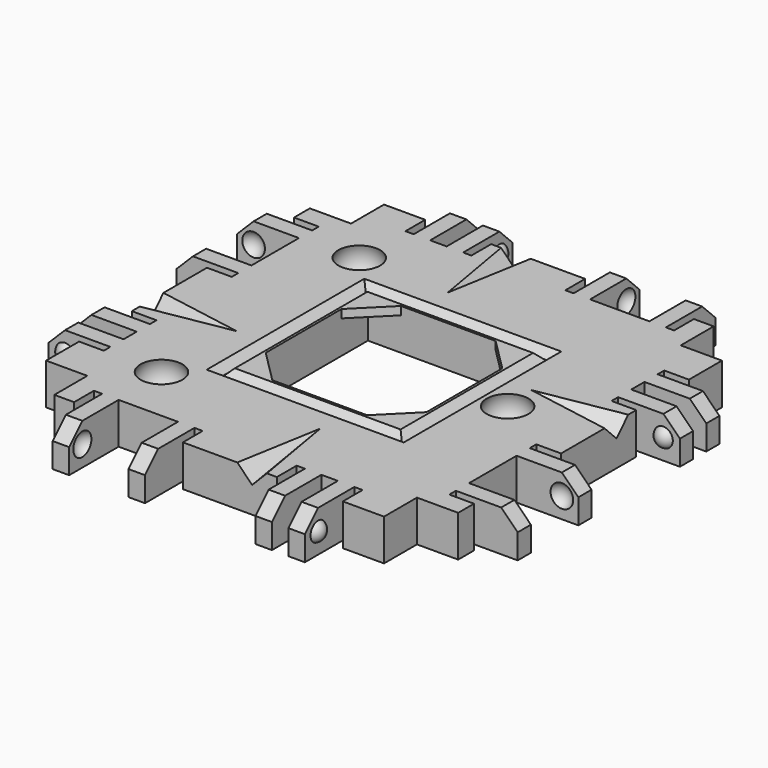
from build123d import *

# Parameters (mm, degrees)
BOX208_W               = 10
BOX208_H               = 15
BOX208_DEPTH           = 10
BOX208_ROLL_ANGLE      = 14.001942
BOX208_PITCH_ANGLE     = -44.136029
BOX208_PLACEMENT_ANGLE = -99.851076
BOX207_W               = 10
BOX207_H               = 15
BOX207_DEPTH           = 10
BOX207_ROLL_ANGLE      = 14.001942
BOX207_PITCH_ANGLE     = -44.136029
BOX207_PLACEMENT_ANGLE = 170.148924
BOX206_W               = 10
BOX206_H               = 15
BOX206_DEPTH           = 10
BOX206_ROLL_ANGLE      = 14.001942
BOX206_PITCH_ANGLE     = -44.136029
BOX206_PLACEMENT_ANGLE = 80.148924
BOX086_W               = 10
BOX086_H               = 15
BOX086_DEPTH           = 10
BOX086_ROLL_ANGLE      = 14.001942
BOX086_PITCH_ANGLE     = -44.136029
BOX086_PLACEMENT_ANGLE = -9.851076
BOX085_W               = 19.5
BOX085_H               = 19.5
BOX085_DEPTH           = 15
BOX076_W               = 19.5
BOX076_H               = 19.5
BOX076_DEPTH           = 15
CHAMFER008_SIZE        = 4
CYLINDER025_R          = 1.7
CYLINDER025_DEPTH      = 10
CYLINDER026_R          = 1.7
CYLINDER026_DEPTH      = 10
CYLINDER024_R          = 1.7
CYLINDER024_DEPTH      = 10
BOX169_W               = 13
BOX169_H               = 40
BOX169_DEPTH           = 10
BOX169_PITCH_ANGLE     = -45
BOX177_W               = 12
BOX177_H               = 44
BOX177_DEPTH           = 10
BOX176_W               = 20
BOX176_H               = 44
BOX176_DEPTH           = 10
BOX172_W               = 4
BOX172_H               = 1
BOX172_DEPTH           = 7
BOX174_W               = 4
BOX174_H               = 1
BOX174_DEPTH           = 7
BOX171_W               = 4
BOX171_H               = 2
BOX171_DEPTH           = 7
BOX173_W               = 4
BOX173_H               = 1
BOX173_DEPTH           = 7
BOX170_W               = 4
BOX170_H               = 1
BOX170_DEPTH           = 7
BOX175_W               = 4
BOX175_H               = 7.2
BOX175_DEPTH           = 7
BOX165_W               = 10
BOX165_H               = 2
BOX165_DEPTH           = 7
BOX166_W               = 10
BOX166_H               = 2
BOX166_DEPTH           = 7
BOX167_W               = 10
BOX167_H               = 2
BOX167_DEPTH           = 7
BOX168_W               = 10
BOX168_H               = 2
BOX168_DEPTH           = 7
BOX164_W               = 5
BOX164_H               = 40
BOX164_DEPTH           = 7
CUT069_PLACEMENT_ANGLE = 90
BOX191_W               = 13
BOX191_H               = 40
BOX191_DEPTH           = 10
BOX191_PITCH_ANGLE     = -45
BOX187_W               = 12
BOX187_H               = 44
BOX187_DEPTH           = 10
BOX180_W               = 20
BOX180_H               = 44
BOX180_DEPTH           = 10
BOX182_W               = 4
BOX182_H               = 1
BOX182_DEPTH           = 7
BOX184_W               = 4
BOX184_H               = 1
BOX184_DEPTH           = 7
BOX186_W               = 4
BOX186_H               = 2
BOX186_DEPTH           = 7
BOX185_W               = 4
BOX185_H               = 1
BOX185_DEPTH           = 7
BOX189_W               = 4
BOX189_H               = 1
BOX189_DEPTH           = 7
BOX181_W               = 4
BOX181_H               = 7.2
BOX181_DEPTH           = 7
BOX190_W               = 10
BOX190_H               = 2
BOX190_DEPTH           = 7
BOX179_W               = 10
BOX179_H               = 2
BOX179_DEPTH           = 7
BOX183_W               = 10
BOX183_H               = 2
BOX183_DEPTH           = 7
BOX188_W               = 10
BOX188_H               = 2
BOX188_DEPTH           = 7
BOX178_W               = 5
BOX178_H               = 40
BOX178_DEPTH           = 7
CUT074_PLACEMENT_ANGLE = 180
BOX193_W               = 13
BOX193_H               = 40
BOX193_DEPTH           = 10
BOX193_PITCH_ANGLE     = -45
BOX203_W               = 12
BOX203_H               = 44
BOX203_DEPTH           = 10
BOX194_W               = 20
BOX194_H               = 44
BOX194_DEPTH           = 10
BOX198_W               = 4
BOX198_H               = 1
BOX198_DEPTH           = 7
BOX204_W               = 4
BOX204_H               = 1
BOX204_DEPTH           = 7
BOX201_W               = 4
BOX201_H               = 2
BOX201_DEPTH           = 7
BOX200_W               = 4
BOX200_H               = 1
BOX200_DEPTH           = 7
BOX197_W               = 4
BOX197_H               = 1
BOX197_DEPTH           = 7
BOX199_W               = 4
BOX199_H               = 7.2
BOX199_DEPTH           = 7
BOX192_W               = 10
BOX192_H               = 2
BOX192_DEPTH           = 7
BOX195_W               = 10
BOX195_H               = 2
BOX195_DEPTH           = 7
BOX202_W               = 10
BOX202_H               = 2
BOX202_DEPTH           = 7
BOX205_W               = 10
BOX205_H               = 2
BOX205_DEPTH           = 7
BOX196_W               = 5
BOX196_H               = 40
BOX196_DEPTH           = 7
CUT079_PLACEMENT_ANGLE = -90
BOX006_W               = 13
BOX006_H               = 40
BOX006_DEPTH           = 10
BOX006_PITCH_ANGLE     = -45
BOX149_W               = 12
BOX149_H               = 44
BOX149_DEPTH           = 10
BOX013_W               = 20
BOX013_H               = 44
BOX013_DEPTH           = 10
BOX009_W               = 4
BOX009_H               = 1
BOX009_DEPTH           = 7
BOX011_W               = 4
BOX011_H               = 1
BOX011_DEPTH           = 7
BOX008_W               = 4
BOX008_H               = 2
BOX008_DEPTH           = 7
BOX010_W               = 4
BOX010_H               = 1
BOX010_DEPTH           = 7
BOX007_W               = 4
BOX007_H               = 1
BOX007_DEPTH           = 7
BOX012_W               = 4
BOX012_H               = 7.2
BOX012_DEPTH           = 7
BOX002_W               = 10
BOX002_H               = 2
BOX002_DEPTH           = 7
BOX003_W               = 10
BOX003_H               = 2
BOX003_DEPTH           = 7
BOX004_W               = 10
BOX004_H               = 2
BOX004_DEPTH           = 7
BOX005_W               = 10
BOX005_H               = 2
BOX005_DEPTH           = 7
BOX001_W               = 5
BOX001_H               = 40
BOX001_DEPTH           = 7
BOX084_W               = 20
BOX084_H               = 20
BOX084_DEPTH           = 14
BOX083_W               = 24
BOX083_H               = 24
BOX083_DEPTH           = 10
CHAMFER007_SIZE        = 0.95
BOX_W                  = 40
BOX_H                  = 40
BOX_DEPTH              = 5


with BuildPart() as cube179:
    # Box208 → Box208 (new body)
    with BuildSketch(Plane.XY):
        with Locations((5, 7.5)):
            Rectangle(BOX208_W, BOX208_H)
    extrude(amount=BOX208_DEPTH)


with BuildPart() as cube179_1:
    # Box208 roll: moved
    add(cube179.part.rotate(Axis((0, 0, 0), (1, 0, 0)), BOX208_ROLL_ANGLE))


with BuildPart() as cube179_2:
    # Box208 pitch: moved
    add(cube179_1.part.rotate(Axis((0, 0, 0), (0, 1, 0)), BOX208_PITCH_ANGLE))


with BuildPart() as cube179_3:
    # Box208 placement: moved
    add(cube179_2.part.moved(Location((-26, -4, 1))).rotate(Axis((-26, -4, 1), (0, 0, 1)), BOX208_PLACEMENT_ANGLE))


with BuildPart() as cube178:
    # Box207 → Box207 (new body)
    with BuildSketch(Plane.XY):
        with Locations((5, 7.5)):
            Rectangle(BOX207_W, BOX207_H)
    extrude(amount=BOX207_DEPTH)


with BuildPart() as cube178_1:
    # Box207 roll: moved
    add(cube178.part.rotate(Axis((0, 0, 0), (1, 0, 0)), BOX207_ROLL_ANGLE))


with BuildPart() as cube178_2:
    # Box207 pitch: moved
    add(cube178_1.part.rotate(Axis((0, 0, 0), (0, 1, 0)), BOX207_PITCH_ANGLE))


with BuildPart() as cube178_3:
    # Box207 placement: moved
    add(cube178_2.part.moved(Location((-4, 26, 1))).rotate(Axis((-4, 26, 1), (0, 0, 1)), BOX207_PLACEMENT_ANGLE))


with BuildPart() as cube177:
    # Box206 → Box206 (new body)
    with BuildSketch(Plane.XY):
        with Locations((5, 7.5)):
            Rectangle(BOX206_W, BOX206_H)
    extrude(amount=BOX206_DEPTH)


with BuildPart() as cube177_1:
    # Box206 roll: moved
    add(cube177.part.rotate(Axis((0, 0, 0), (1, 0, 0)), BOX206_ROLL_ANGLE))


with BuildPart() as cube177_2:
    # Box206 pitch: moved
    add(cube177_1.part.rotate(Axis((0, 0, 0), (0, 1, 0)), BOX206_PITCH_ANGLE))


with BuildPart() as cube177_3:
    # Box206 placement: moved
    add(cube177_2.part.moved(Location((26, 4, 1))).rotate(Axis((26, 4, 1), (0, 0, 1)), BOX206_PLACEMENT_ANGLE))


with BuildPart() as glue_dents:
    # Box086 → Box086 (new body)
    with BuildSketch(Plane.XY):
        with Locations((5, 7.5)):
            Rectangle(BOX086_W, BOX086_H)
    extrude(amount=BOX086_DEPTH)


with BuildPart() as glue_dents_1:
    # Box086 roll: moved
    add(glue_dents.part.rotate(Axis((0, 0, 0), (1, 0, 0)), BOX086_ROLL_ANGLE))


with BuildPart() as glue_dents_2:
    # Box086 pitch: moved
    add(glue_dents_1.part.rotate(Axis((0, 0, 0), (0, 1, 0)), BOX086_PITCH_ANGLE))


with BuildPart() as glue_dents_3:
    # Box086 placement: moved
    add(glue_dents_2.part.moved(Location((4, -26, 1))).rotate(Axis((4, -26, 1), (0, 0, 1)), BOX086_PLACEMENT_ANGLE))

    # Fusion078: union Cube179, Cube178, Cube177
    add(cube179_3.part)
    add(cube178_3.part)
    add(cube177_3.part)


with BuildPart() as cube069:
    # Box085 → Box085 (new body)
    with BuildSketch(Plane(origin=(-9.75, -9.75, -13), x_dir=(1, 0, 0), z_dir=(0, 0, 1))):
        with Locations((9.75, 9.75)):
            Rectangle(BOX085_W, BOX085_H)
    extrude(amount=BOX085_DEPTH)


with BuildPart() as obj1:
    # Box076 → Box076 (new body)
    with BuildSketch(Plane(origin=(-9.75, -9.75, -3), x_dir=(1, 0, 0), z_dir=(0, 0, 1))):
        with Locations((9.75, 9.75)):
            Rectangle(BOX076_W, BOX076_H)
    extrude(amount=BOX076_DEPTH)

    # Chamfer008
    chamfer008_edges = [obj1.edges().sort_by_distance(p)[0] for p in [
        (-9.75, -9.75, 4.5),
        (-9.75, 9.75, 4.5),
        (9.75, -9.75, 4.5),
        (9.75, 9.75, 4.5),
    ]]
    chamfer(chamfer008_edges, length=CHAMFER008_SIZE)


with BuildPart() as cylinder025:
    # Cylinder025 → Cylinder025 (new body)
    with BuildSketch(Plane(origin=(15, 0, -5), x_dir=(1, 0, 0), z_dir=(0, 0, 1))):
        Circle(CYLINDER025_R)
    extrude(amount=CYLINDER025_DEPTH)


with BuildPart() as cylinder026:
    # Cylinder026 → Cylinder026 (new body)
    with BuildSketch(Plane(origin=(-15, 15, -5), x_dir=(1, 0, 0), z_dir=(0, 0, 1))):
        Circle(CYLINDER026_R)
    extrude(amount=CYLINDER026_DEPTH)


with BuildPart() as screw_holes_to_remove_ball_mags:
    # Cylinder024 → Cylinder024 (new body)
    with BuildSketch(Plane(origin=(-15, -15, -5), x_dir=(1, 0, 0), z_dir=(0, 0, 1))):
        Circle(CYLINDER024_R)
    extrude(amount=CYLINDER024_DEPTH)

    # Fusion052: union Cylinder025, Cylinder026
    add(cylinder025.part)
    add(cylinder026.part)


with BuildPart() as chamfer_cube002:
    # Box169 → Box169 (new body)
    with BuildSketch(Plane.XY):
        with Locations((6.5, 20)):
            Rectangle(BOX169_W, BOX169_H)
    extrude(amount=BOX169_DEPTH)


with BuildPart() as chamfer_cube002_1:
    # Box169 pitch: moved
    add(chamfer_cube002.part.rotate(Axis((0, 0, 0), (0, 1, 0)), BOX169_PITCH_ANGLE))


with BuildPart() as chamfer_cube002_2:
    # Box169 placement: moved
    add(chamfer_cube002_1.part.moved(Location((-11.69, 0, -1.19))))


with BuildPart() as re_level_edge_clip_block005:
    # Box177 → Box177 (new body)
    with BuildSketch(Plane(origin=(-21.5, -2, -7), x_dir=(1, 0, 0), z_dir=(0, 0, 1))):
        with Locations((6, 22)):
            Rectangle(BOX177_W, BOX177_H)
    extrude(amount=BOX177_DEPTH)


with BuildPart() as re_level_edge_clip_block004:
    # Box176 → Box176 (new body)
    with BuildSketch(Plane(origin=(-19, -2, 3), x_dir=(1, 0, 0), z_dir=(0, 0, 1))):
        with Locations((10, 22)):
            Rectangle(BOX176_W, BOX176_H)
    extrude(amount=BOX176_DEPTH)


with BuildPart() as cube151:
    # Box172 → Box172 (new body)
    with BuildSketch(Plane(origin=(-6, 12, -2), x_dir=(1, 0, 0), z_dir=(0, 0, 1))):
        with Locations((2, 0.5)):
            Rectangle(BOX172_W, BOX172_H)
    extrude(amount=BOX172_DEPTH)


with BuildPart() as cube153:
    # Box174 → Box174 (new body)
    with BuildSketch(Plane(origin=(-6, 36.6, -2), x_dir=(1, 0, 0), z_dir=(0, 0, 1))):
        with Locations((2, 0.5)):
            Rectangle(BOX174_W, BOX174_H)
    extrude(amount=BOX174_DEPTH)


with BuildPart() as cube150:
    # Box171 → Box171 (new body)
    with BuildSketch(Plane(origin=(-6, 8, -2), x_dir=(1, 0, 0), z_dir=(0, 0, 1))):
        with Locations((2, 1)):
            Rectangle(BOX171_W, BOX171_H)
    extrude(amount=BOX171_DEPTH)


with BuildPart() as cube152:
    # Box173 → Box173 (new body)
    with BuildSketch(Plane(origin=(-6, 24.4, -2), x_dir=(1, 0, 0), z_dir=(0, 0, 1))):
        with Locations((2, 0.5)):
            Rectangle(BOX173_W, BOX173_H)
    extrude(amount=BOX173_DEPTH)


with BuildPart() as cube149:
    # Box170 → Box170 (new body)
    with BuildSketch(Plane(origin=(-6, 5, -2), x_dir=(1, 0, 0), z_dir=(0, 0, 1))):
        with Locations((2, 0.5)):
            Rectangle(BOX170_W, BOX170_H)
    extrude(amount=BOX170_DEPTH)


with BuildPart() as extra_holes_for_clips002:
    # Box175 → Box175 (new body)
    with BuildSketch(Plane(origin=(-6, 27.4, -2), x_dir=(1, 0, 0), z_dir=(0, 0, 1))):
        with Locations((2, 3.6)):
            Rectangle(BOX175_W, BOX175_H)
    extrude(amount=BOX175_DEPTH)

    # Fusion061: union Cube151, Cube153, Cube150, Cube152, Cube149
    add(cube151.part)
    add(cube153.part)
    add(cube150.part)
    add(cube152.part)
    add(cube149.part)


with BuildPart() as sphere058:
    # Sphere058 → Sphere058 (revolve)
    with BuildSketch(Plane(origin=(-7.5, 34, 0.5), x_dir=(1, 0, 0), z_dir=(0, -1, 0))):
        with BuildLine():
            ThreePointArc((0, -1.5), (1.5, 0), (0, 1.5))
            Line((0, 1.5), (0, -1.5))
        make_face()
    revolve(axis=Axis((-7.5, 34, 0.5), (0, 0, 1)))


with BuildPart() as holes002:
    # Sphere057 → Sphere057 (revolve)
    with BuildSketch(Plane(origin=(-7.5, 28, 0.5), x_dir=(1, 0, 0), z_dir=(0, -1, 0))):
        with BuildLine():
            ThreePointArc((0, -1.5), (1.5, 0), (0, 1.5))
            Line((0, 1.5), (0, -1.5))
        make_face()
    revolve(axis=Axis((-7.5, 28, 0.5), (0, 0, 1)))

    # Fusion063: union Sphere058
    add(sphere058.part)


with BuildPart() as cube145:
    # Box165 → Box165 (new body)
    with BuildSketch(Plane(origin=(-15, 6, -2), x_dir=(1, 0, 0), z_dir=(0, 0, 1))):
        with Locations((5, 1)):
            Rectangle(BOX165_W, BOX165_H)
    extrude(amount=BOX165_DEPTH)


with BuildPart() as cube146:
    # Box166 → Box166 (new body)
    with BuildSketch(Plane(origin=(-15, 10, -2), x_dir=(1, 0, 0), z_dir=(0, 0, 1))):
        with Locations((5, 1)):
            Rectangle(BOX166_W, BOX166_H)
    extrude(amount=BOX166_DEPTH)


with BuildPart() as cube147:
    # Box167 → Box167 (new body)
    with BuildSketch(Plane(origin=(-15, 25.4, -2), x_dir=(1, 0, 0), z_dir=(0, 0, 1))):
        with Locations((5, 1)):
            Rectangle(BOX167_W, BOX167_H)
    extrude(amount=BOX167_DEPTH)


with BuildPart() as cube148:
    # Box168 → Box168 (new body)
    with BuildSketch(Plane(origin=(-15, 34.6, -2), x_dir=(1, 0, 0), z_dir=(0, 0, 1))):
        with Locations((5, 1)):
            Rectangle(BOX168_W, BOX168_H)
    extrude(amount=BOX168_DEPTH)


with BuildPart() as fusion064:
    # Box164 → Box164 (new body)
    with BuildSketch(Plane(origin=(-5, 0, -2), x_dir=(1, 0, 0), z_dir=(0, 0, 1))):
        with Locations((2.5, 20)):
            Rectangle(BOX164_W, BOX164_H)
    extrude(amount=BOX164_DEPTH)

    # Fusion064: union Cube145, Cube146, Cube147, Cube148
    add(cube145.part)
    add(cube146.part)
    add(cube147.part)
    add(cube148.part)


with BuildPart() as sphere056:
    # Sphere056 → Sphere056 (revolve)
    with BuildSketch(Plane(origin=(-7.5, 11.5, 0.5), x_dir=(1, 0, 0), z_dir=(0, -1, 0))):
        with BuildLine():
            ThreePointArc((0, -1.25), (1.25, 0), (0, 1.25))
            Line((0, 1.25), (0, -1.25))
        make_face()
    revolve(axis=Axis((-7.5, 11.5, 0.5), (0, 0, 1)))


with BuildPart() as edge_clips001:
    # Sphere055 → Sphere055 (revolve)
    with BuildSketch(Plane(origin=(-7.5, 6.5, 0.5), x_dir=(1, 0, 0), z_dir=(0, -1, 0))):
        with BuildLine():
            ThreePointArc((0, -1.25), (1.25, 0), (0, 1.25))
            Line((0, 1.25), (0, -1.25))
        make_face()
    revolve(axis=Axis((-7.5, 6.5, 0.5), (0, 0, 1)))

    # Fusion062: union Sphere056
    add(sphere056.part)

    # Fusion065: union Fusion064
    add(fusion064.part)

    # Cut065: cut Holes002
    add(holes002.part, mode=Mode.SUBTRACT)

    # Cut066: cut Extra Holes for Clips002
    add(extra_holes_for_clips002.part, mode=Mode.SUBTRACT)

    # Cut067: cut Re-level Edge Clip Block004
    add(re_level_edge_clip_block004.part, mode=Mode.SUBTRACT)

    # Cut068: cut Re-level Edge Clip Block005
    add(re_level_edge_clip_block005.part, mode=Mode.SUBTRACT)

    # Cut069: cut Chamfer Cube002
    add(chamfer_cube002_2.part, mode=Mode.SUBTRACT)


with BuildPart() as edge_clips001_1:
    # Cut069 placement: moved
    add(edge_clips001.part.moved(Location((20, -20, 0))).rotate(Axis((20, -20, 0), (0, 0, 1)), CUT069_PLACEMENT_ANGLE))


with BuildPart() as chamfer_cube003:
    # Box191 → Box191 (new body)
    with BuildSketch(Plane.XY):
        with Locations((6.5, 20)):
            Rectangle(BOX191_W, BOX191_H)
    extrude(amount=BOX191_DEPTH)


with BuildPart() as chamfer_cube003_1:
    # Box191 pitch: moved
    add(chamfer_cube003.part.rotate(Axis((0, 0, 0), (0, 1, 0)), BOX191_PITCH_ANGLE))


with BuildPart() as chamfer_cube003_2:
    # Box191 placement: moved
    add(chamfer_cube003_1.part.moved(Location((-11.69, 0, -1.19))))


with BuildPart() as re_level_edge_clip_block007:
    # Box187 → Box187 (new body)
    with BuildSketch(Plane(origin=(-21.5, -2, -7), x_dir=(1, 0, 0), z_dir=(0, 0, 1))):
        with Locations((6, 22)):
            Rectangle(BOX187_W, BOX187_H)
    extrude(amount=BOX187_DEPTH)


with BuildPart() as re_level_edge_clip_block006:
    # Box180 → Box180 (new body)
    with BuildSketch(Plane(origin=(-19, -2, 3), x_dir=(1, 0, 0), z_dir=(0, 0, 1))):
        with Locations((10, 22)):
            Rectangle(BOX180_W, BOX180_H)
    extrude(amount=BOX180_DEPTH)


with BuildPart() as cube158:
    # Box182 → Box182 (new body)
    with BuildSketch(Plane(origin=(-6, 12, -2), x_dir=(1, 0, 0), z_dir=(0, 0, 1))):
        with Locations((2, 0.5)):
            Rectangle(BOX182_W, BOX182_H)
    extrude(amount=BOX182_DEPTH)


with BuildPart() as cube160:
    # Box184 → Box184 (new body)
    with BuildSketch(Plane(origin=(-6, 36.6, -2), x_dir=(1, 0, 0), z_dir=(0, 0, 1))):
        with Locations((2, 0.5)):
            Rectangle(BOX184_W, BOX184_H)
    extrude(amount=BOX184_DEPTH)


with BuildPart() as cube162:
    # Box186 → Box186 (new body)
    with BuildSketch(Plane(origin=(-6, 8, -2), x_dir=(1, 0, 0), z_dir=(0, 0, 1))):
        with Locations((2, 1)):
            Rectangle(BOX186_W, BOX186_H)
    extrude(amount=BOX186_DEPTH)


with BuildPart() as cube161:
    # Box185 → Box185 (new body)
    with BuildSketch(Plane(origin=(-6, 24.4, -2), x_dir=(1, 0, 0), z_dir=(0, 0, 1))):
        with Locations((2, 0.5)):
            Rectangle(BOX185_W, BOX185_H)
    extrude(amount=BOX185_DEPTH)


with BuildPart() as cube164:
    # Box189 → Box189 (new body)
    with BuildSketch(Plane(origin=(-6, 5, -2), x_dir=(1, 0, 0), z_dir=(0, 0, 1))):
        with Locations((2, 0.5)):
            Rectangle(BOX189_W, BOX189_H)
    extrude(amount=BOX189_DEPTH)


with BuildPart() as extra_holes_for_clips003:
    # Box181 → Box181 (new body)
    with BuildSketch(Plane(origin=(-6, 27.4, -2), x_dir=(1, 0, 0), z_dir=(0, 0, 1))):
        with Locations((2, 3.6)):
            Rectangle(BOX181_W, BOX181_H)
    extrude(amount=BOX181_DEPTH)

    # Fusion067: union Cube158, Cube160, Cube162, Cube161, Cube164
    add(cube158.part)
    add(cube160.part)
    add(cube162.part)
    add(cube161.part)
    add(cube164.part)


with BuildPart() as sphere060:
    # Sphere060 → Sphere060 (revolve)
    with BuildSketch(Plane(origin=(-7.5, 34, 0.5), x_dir=(1, 0, 0), z_dir=(0, -1, 0))):
        with BuildLine():
            ThreePointArc((0, -1.5), (1.5, 0), (0, 1.5))
            Line((0, 1.5), (0, -1.5))
        make_face()
    revolve(axis=Axis((-7.5, 34, 0.5), (0, 0, 1)))


with BuildPart() as holes003:
    # Sphere062 → Sphere062 (revolve)
    with BuildSketch(Plane(origin=(-7.5, 28, 0.5), x_dir=(1, 0, 0), z_dir=(0, -1, 0))):
        with BuildLine():
            ThreePointArc((0, -1.5), (1.5, 0), (0, 1.5))
            Line((0, 1.5), (0, -1.5))
        make_face()
    revolve(axis=Axis((-7.5, 28, 0.5), (0, 0, 1)))

    # Fusion066: union Sphere060
    add(sphere060.part)


with BuildPart() as cube165:
    # Box190 → Box190 (new body)
    with BuildSketch(Plane(origin=(-15, 6, -2), x_dir=(1, 0, 0), z_dir=(0, 0, 1))):
        with Locations((5, 1)):
            Rectangle(BOX190_W, BOX190_H)
    extrude(amount=BOX190_DEPTH)


with BuildPart() as cube156:
    # Box179 → Box179 (new body)
    with BuildSketch(Plane(origin=(-15, 10, -2), x_dir=(1, 0, 0), z_dir=(0, 0, 1))):
        with Locations((5, 1)):
            Rectangle(BOX179_W, BOX179_H)
    extrude(amount=BOX179_DEPTH)


with BuildPart() as cube159:
    # Box183 → Box183 (new body)
    with BuildSketch(Plane(origin=(-15, 25.4, -2), x_dir=(1, 0, 0), z_dir=(0, 0, 1))):
        with Locations((5, 1)):
            Rectangle(BOX183_W, BOX183_H)
    extrude(amount=BOX183_DEPTH)


with BuildPart() as cube163:
    # Box188 → Box188 (new body)
    with BuildSketch(Plane(origin=(-15, 34.6, -2), x_dir=(1, 0, 0), z_dir=(0, 0, 1))):
        with Locations((5, 1)):
            Rectangle(BOX188_W, BOX188_H)
    extrude(amount=BOX188_DEPTH)


with BuildPart() as fusion069:
    # Box178 → Box178 (new body)
    with BuildSketch(Plane(origin=(-5, 0, -2), x_dir=(1, 0, 0), z_dir=(0, 0, 1))):
        with Locations((2.5, 20)):
            Rectangle(BOX178_W, BOX178_H)
    extrude(amount=BOX178_DEPTH)

    # Fusion069: union Cube165, Cube156, Cube159, Cube163
    add(cube165.part)
    add(cube156.part)
    add(cube159.part)
    add(cube163.part)


with BuildPart() as sphere061:
    # Sphere061 → Sphere061 (revolve)
    with BuildSketch(Plane(origin=(-7.5, 11.5, 0.5), x_dir=(1, 0, 0), z_dir=(0, -1, 0))):
        with BuildLine():
            ThreePointArc((0, -1.25), (1.25, 0), (0, 1.25))
            Line((0, 1.25), (0, -1.25))
        make_face()
    revolve(axis=Axis((-7.5, 11.5, 0.5), (0, 0, 1)))


with BuildPart() as edge_clips002:
    # Sphere059 → Sphere059 (revolve)
    with BuildSketch(Plane(origin=(-7.5, 6.5, 0.5), x_dir=(1, 0, 0), z_dir=(0, -1, 0))):
        with BuildLine():
            ThreePointArc((0, -1.25), (1.25, 0), (0, 1.25))
            Line((0, 1.25), (0, -1.25))
        make_face()
    revolve(axis=Axis((-7.5, 6.5, 0.5), (0, 0, 1)))

    # Fusion070: union Sphere061
    add(sphere061.part)

    # Fusion068: union Fusion069
    add(fusion069.part)

    # Cut073: cut Holes003
    add(holes003.part, mode=Mode.SUBTRACT)

    # Cut070: cut Extra Holes for Clips003
    add(extra_holes_for_clips003.part, mode=Mode.SUBTRACT)

    # Cut071: cut Re-level Edge Clip Block006
    add(re_level_edge_clip_block006.part, mode=Mode.SUBTRACT)

    # Cut072: cut Re-level Edge Clip Block007
    add(re_level_edge_clip_block007.part, mode=Mode.SUBTRACT)

    # Cut074: cut Chamfer Cube003
    add(chamfer_cube003_2.part, mode=Mode.SUBTRACT)


with BuildPart() as edge_clips002_1:
    # Cut074 placement: moved
    add(edge_clips002.part.moved(Location((20, 20, 0))).rotate(Axis((20, 20, 0), (0, 0, 1)), CUT074_PLACEMENT_ANGLE))


with BuildPart() as chamfer_cube004:
    # Box193 → Box193 (new body)
    with BuildSketch(Plane.XY):
        with Locations((6.5, 20)):
            Rectangle(BOX193_W, BOX193_H)
    extrude(amount=BOX193_DEPTH)


with BuildPart() as chamfer_cube004_1:
    # Box193 pitch: moved
    add(chamfer_cube004.part.rotate(Axis((0, 0, 0), (0, 1, 0)), BOX193_PITCH_ANGLE))


with BuildPart() as chamfer_cube004_2:
    # Box193 placement: moved
    add(chamfer_cube004_1.part.moved(Location((-11.69, 0, -1.19))))


with BuildPart() as re_level_edge_clip_block009:
    # Box203 → Box203 (new body)
    with BuildSketch(Plane(origin=(-21.5, -2, -7), x_dir=(1, 0, 0), z_dir=(0, 0, 1))):
        with Locations((6, 22)):
            Rectangle(BOX203_W, BOX203_H)
    extrude(amount=BOX203_DEPTH)


with BuildPart() as re_level_edge_clip_block008:
    # Box194 → Box194 (new body)
    with BuildSketch(Plane(origin=(-19, -2, 3), x_dir=(1, 0, 0), z_dir=(0, 0, 1))):
        with Locations((10, 22)):
            Rectangle(BOX194_W, BOX194_H)
    extrude(amount=BOX194_DEPTH)


with BuildPart() as cube170:
    # Box198 → Box198 (new body)
    with BuildSketch(Plane(origin=(-6, 12, -2), x_dir=(1, 0, 0), z_dir=(0, 0, 1))):
        with Locations((2, 0.5)):
            Rectangle(BOX198_W, BOX198_H)
    extrude(amount=BOX198_DEPTH)


with BuildPart() as cube175:
    # Box204 → Box204 (new body)
    with BuildSketch(Plane(origin=(-6, 36.6, -2), x_dir=(1, 0, 0), z_dir=(0, 0, 1))):
        with Locations((2, 0.5)):
            Rectangle(BOX204_W, BOX204_H)
    extrude(amount=BOX204_DEPTH)


with BuildPart() as cube173:
    # Box201 → Box201 (new body)
    with BuildSketch(Plane(origin=(-6, 8, -2), x_dir=(1, 0, 0), z_dir=(0, 0, 1))):
        with Locations((2, 1)):
            Rectangle(BOX201_W, BOX201_H)
    extrude(amount=BOX201_DEPTH)


with BuildPart() as cube172:
    # Box200 → Box200 (new body)
    with BuildSketch(Plane(origin=(-6, 24.4, -2), x_dir=(1, 0, 0), z_dir=(0, 0, 1))):
        with Locations((2, 0.5)):
            Rectangle(BOX200_W, BOX200_H)
    extrude(amount=BOX200_DEPTH)


with BuildPart() as cube169:
    # Box197 → Box197 (new body)
    with BuildSketch(Plane(origin=(-6, 5, -2), x_dir=(1, 0, 0), z_dir=(0, 0, 1))):
        with Locations((2, 0.5)):
            Rectangle(BOX197_W, BOX197_H)
    extrude(amount=BOX197_DEPTH)


with BuildPart() as extra_holes_for_clips004:
    # Box199 → Box199 (new body)
    with BuildSketch(Plane(origin=(-6, 27.4, -2), x_dir=(1, 0, 0), z_dir=(0, 0, 1))):
        with Locations((2, 3.6)):
            Rectangle(BOX199_W, BOX199_H)
    extrude(amount=BOX199_DEPTH)

    # Fusion074: union Cube170, Cube175, Cube173, Cube172, Cube169
    add(cube170.part)
    add(cube175.part)
    add(cube173.part)
    add(cube172.part)
    add(cube169.part)


with BuildPart() as sphere066:
    # Sphere066 → Sphere066 (revolve)
    with BuildSketch(Plane(origin=(-7.5, 34, 0.5), x_dir=(1, 0, 0), z_dir=(0, -1, 0))):
        with BuildLine():
            ThreePointArc((0, -1.5), (1.5, 0), (0, 1.5))
            Line((0, 1.5), (0, -1.5))
        make_face()
    revolve(axis=Axis((-7.5, 34, 0.5), (0, 0, 1)))


with BuildPart() as holes004:
    # Sphere063 → Sphere063 (revolve)
    with BuildSketch(Plane(origin=(-7.5, 28, 0.5), x_dir=(1, 0, 0), z_dir=(0, -1, 0))):
        with BuildLine():
            ThreePointArc((0, -1.5), (1.5, 0), (0, 1.5))
            Line((0, 1.5), (0, -1.5))
        make_face()
    revolve(axis=Axis((-7.5, 28, 0.5), (0, 0, 1)))

    # Fusion071: union Sphere066
    add(sphere066.part)


with BuildPart() as cube166:
    # Box192 → Box192 (new body)
    with BuildSketch(Plane(origin=(-15, 6, -2), x_dir=(1, 0, 0), z_dir=(0, 0, 1))):
        with Locations((5, 1)):
            Rectangle(BOX192_W, BOX192_H)
    extrude(amount=BOX192_DEPTH)


with BuildPart() as cube167:
    # Box195 → Box195 (new body)
    with BuildSketch(Plane(origin=(-15, 10, -2), x_dir=(1, 0, 0), z_dir=(0, 0, 1))):
        with Locations((5, 1)):
            Rectangle(BOX195_W, BOX195_H)
    extrude(amount=BOX195_DEPTH)


with BuildPart() as cube174:
    # Box202 → Box202 (new body)
    with BuildSketch(Plane(origin=(-15, 25.4, -2), x_dir=(1, 0, 0), z_dir=(0, 0, 1))):
        with Locations((5, 1)):
            Rectangle(BOX202_W, BOX202_H)
    extrude(amount=BOX202_DEPTH)


with BuildPart() as cube176:
    # Box205 → Box205 (new body)
    with BuildSketch(Plane(origin=(-15, 34.6, -2), x_dir=(1, 0, 0), z_dir=(0, 0, 1))):
        with Locations((5, 1)):
            Rectangle(BOX205_W, BOX205_H)
    extrude(amount=BOX205_DEPTH)


with BuildPart() as fusion072:
    # Box196 → Box196 (new body)
    with BuildSketch(Plane(origin=(-5, 0, -2), x_dir=(1, 0, 0), z_dir=(0, 0, 1))):
        with Locations((2.5, 20)):
            Rectangle(BOX196_W, BOX196_H)
    extrude(amount=BOX196_DEPTH)

    # Fusion072: union Cube166, Cube167, Cube174, Cube176
    add(cube166.part)
    add(cube167.part)
    add(cube174.part)
    add(cube176.part)


with BuildPart() as sphere064:
    # Sphere064 → Sphere064 (revolve)
    with BuildSketch(Plane(origin=(-7.5, 11.5, 0.5), x_dir=(1, 0, 0), z_dir=(0, -1, 0))):
        with BuildLine():
            ThreePointArc((0, -1.25), (1.25, 0), (0, 1.25))
            Line((0, 1.25), (0, -1.25))
        make_face()
    revolve(axis=Axis((-7.5, 11.5, 0.5), (0, 0, 1)))


with BuildPart() as edge_clips003:
    # Sphere065 → Sphere065 (revolve)
    with BuildSketch(Plane(origin=(-7.5, 6.5, 0.5), x_dir=(1, 0, 0), z_dir=(0, -1, 0))):
        with BuildLine():
            ThreePointArc((0, -1.25), (1.25, 0), (0, 1.25))
            Line((0, 1.25), (0, -1.25))
        make_face()
    revolve(axis=Axis((-7.5, 6.5, 0.5), (0, 0, 1)))

    # Fusion073: union Sphere064
    add(sphere064.part)

    # Fusion075: union Fusion072
    add(fusion072.part)

    # Cut075: cut Holes004
    add(holes004.part, mode=Mode.SUBTRACT)

    # Cut076: cut Extra Holes for Clips004
    add(extra_holes_for_clips004.part, mode=Mode.SUBTRACT)

    # Cut078: cut Re-level Edge Clip Block008
    add(re_level_edge_clip_block008.part, mode=Mode.SUBTRACT)

    # Cut077: cut Re-level Edge Clip Block009
    add(re_level_edge_clip_block009.part, mode=Mode.SUBTRACT)

    # Cut079: cut Chamfer Cube004
    add(chamfer_cube004_2.part, mode=Mode.SUBTRACT)


with BuildPart() as edge_clips003_1:
    # Cut079 placement: moved
    add(edge_clips003.part.moved(Location((-20, 20, 0))).rotate(Axis((-20, 20, 0), (0, 0, 1)), CUT079_PLACEMENT_ANGLE))


with BuildPart() as chamfer_cube:
    # Box006 → Box006 (new body)
    with BuildSketch(Plane.XY):
        with Locations((6.5, 20)):
            Rectangle(BOX006_W, BOX006_H)
    extrude(amount=BOX006_DEPTH)


with BuildPart() as chamfer_cube_1:
    # Box006 pitch: moved
    add(chamfer_cube.part.rotate(Axis((0, 0, 0), (0, 1, 0)), BOX006_PITCH_ANGLE))


with BuildPart() as chamfer_cube_2:
    # Box006 placement: moved
    add(chamfer_cube_1.part.moved(Location((-11.69, 0, -1.19))))


with BuildPart() as re_level_edge_clip_block001:
    # Box149 → Box149 (new body)
    with BuildSketch(Plane(origin=(-21.5, -2, -7), x_dir=(1, 0, 0), z_dir=(0, 0, 1))):
        with Locations((6, 22)):
            Rectangle(BOX149_W, BOX149_H)
    extrude(amount=BOX149_DEPTH)


with BuildPart() as re_level_edge_clip_block:
    # Box013 → Box013 (new body)
    with BuildSketch(Plane(origin=(-19, -2, 3), x_dir=(1, 0, 0), z_dir=(0, 0, 1))):
        with Locations((10, 22)):
            Rectangle(BOX013_W, BOX013_H)
    extrude(amount=BOX013_DEPTH)


with BuildPart() as cube009:
    # Box009 → Box009 (new body)
    with BuildSketch(Plane(origin=(-6, 12, -2), x_dir=(1, 0, 0), z_dir=(0, 0, 1))):
        with Locations((2, 0.5)):
            Rectangle(BOX009_W, BOX009_H)
    extrude(amount=BOX009_DEPTH)


with BuildPart() as cube011:
    # Box011 → Box011 (new body)
    with BuildSketch(Plane(origin=(-6, 36.6, -2), x_dir=(1, 0, 0), z_dir=(0, 0, 1))):
        with Locations((2, 0.5)):
            Rectangle(BOX011_W, BOX011_H)
    extrude(amount=BOX011_DEPTH)


with BuildPart() as cube008:
    # Box008 → Box008 (new body)
    with BuildSketch(Plane(origin=(-6, 8, -2), x_dir=(1, 0, 0), z_dir=(0, 0, 1))):
        with Locations((2, 1)):
            Rectangle(BOX008_W, BOX008_H)
    extrude(amount=BOX008_DEPTH)


with BuildPart() as cube010:
    # Box010 → Box010 (new body)
    with BuildSketch(Plane(origin=(-6, 24.4, -2), x_dir=(1, 0, 0), z_dir=(0, 0, 1))):
        with Locations((2, 0.5)):
            Rectangle(BOX010_W, BOX010_H)
    extrude(amount=BOX010_DEPTH)


with BuildPart() as cube007:
    # Box007 → Box007 (new body)
    with BuildSketch(Plane(origin=(-6, 5, -2), x_dir=(1, 0, 0), z_dir=(0, 0, 1))):
        with Locations((2, 0.5)):
            Rectangle(BOX007_W, BOX007_H)
    extrude(amount=BOX007_DEPTH)


with BuildPart() as extra_holes_for_clips:
    # Box012 → Box012 (new body)
    with BuildSketch(Plane(origin=(-6, 27.4, -2), x_dir=(1, 0, 0), z_dir=(0, 0, 1))):
        with Locations((2, 3.6)):
            Rectangle(BOX012_W, BOX012_H)
    extrude(amount=BOX012_DEPTH)

    # Fusion003: union Cube009, Cube011, Cube008, Cube010, Cube007
    add(cube009.part)
    add(cube011.part)
    add(cube008.part)
    add(cube010.part)
    add(cube007.part)


with BuildPart() as sphere011:
    # Sphere011 → Sphere011 (revolve)
    with BuildSketch(Plane(origin=(-7.5, 34, 0.5), x_dir=(1, 0, 0), z_dir=(0, -1, 0))):
        with BuildLine():
            ThreePointArc((0, -1.5), (1.5, 0), (0, 1.5))
            Line((0, 1.5), (0, -1.5))
        make_face()
    revolve(axis=Axis((-7.5, 34, 0.5), (0, 0, 1)))


with BuildPart() as holes:
    # Sphere010 → Sphere010 (revolve)
    with BuildSketch(Plane(origin=(-7.5, 28, 0.5), x_dir=(1, 0, 0), z_dir=(0, -1, 0))):
        with BuildLine():
            ThreePointArc((0, -1.5), (1.5, 0), (0, 1.5))
            Line((0, 1.5), (0, -1.5))
        make_face()
    revolve(axis=Axis((-7.5, 28, 0.5), (0, 0, 1)))

    # Fusion053: union Sphere011
    add(sphere011.part)


with BuildPart() as cube002:
    # Box002 → Box002 (new body)
    with BuildSketch(Plane(origin=(-15, 6, -2), x_dir=(1, 0, 0), z_dir=(0, 0, 1))):
        with Locations((5, 1)):
            Rectangle(BOX002_W, BOX002_H)
    extrude(amount=BOX002_DEPTH)


with BuildPart() as cube003:
    # Box003 → Box003 (new body)
    with BuildSketch(Plane(origin=(-15, 10, -2), x_dir=(1, 0, 0), z_dir=(0, 0, 1))):
        with Locations((5, 1)):
            Rectangle(BOX003_W, BOX003_H)
    extrude(amount=BOX003_DEPTH)


with BuildPart() as cube004:
    # Box004 → Box004 (new body)
    with BuildSketch(Plane(origin=(-15, 25.4, -2), x_dir=(1, 0, 0), z_dir=(0, 0, 1))):
        with Locations((5, 1)):
            Rectangle(BOX004_W, BOX004_H)
    extrude(amount=BOX004_DEPTH)


with BuildPart() as cube005:
    # Box005 → Box005 (new body)
    with BuildSketch(Plane(origin=(-15, 34.6, -2), x_dir=(1, 0, 0), z_dir=(0, 0, 1))):
        with Locations((5, 1)):
            Rectangle(BOX005_W, BOX005_H)
    extrude(amount=BOX005_DEPTH)


with BuildPart() as fusion054:
    # Box001 → Box001 (new body)
    with BuildSketch(Plane(origin=(-5, 0, -2), x_dir=(1, 0, 0), z_dir=(0, 0, 1))):
        with Locations((2.5, 20)):
            Rectangle(BOX001_W, BOX001_H)
    extrude(amount=BOX001_DEPTH)

    # Fusion054: union Cube002, Cube003, Cube004, Cube005
    add(cube002.part)
    add(cube003.part)
    add(cube004.part)
    add(cube005.part)


with BuildPart() as sphere009:
    # Sphere009 → Sphere009 (revolve)
    with BuildSketch(Plane(origin=(-7.5, 11.5, 0.5), x_dir=(1, 0, 0), z_dir=(0, -1, 0))):
        with BuildLine():
            ThreePointArc((0, -1.25), (1.25, 0), (0, 1.25))
            Line((0, 1.25), (0, -1.25))
        make_face()
    revolve(axis=Axis((-7.5, 11.5, 0.5), (0, 0, 1)))


with BuildPart() as edge_clips_fusion:
    # Sphere008 → Sphere008 (revolve)
    with BuildSketch(Plane(origin=(-7.5, 6.5, 0.5), x_dir=(1, 0, 0), z_dir=(0, -1, 0))):
        with BuildLine():
            ThreePointArc((0, -1.25), (1.25, 0), (0, 1.25))
            Line((0, 1.25), (0, -1.25))
        make_face()
    revolve(axis=Axis((-7.5, 6.5, 0.5), (0, 0, 1)))

    # Fusion: union Sphere009
    add(sphere009.part)

    # Fusion055: union Fusion054
    add(fusion054.part)

    # Cut: cut Holes
    add(holes.part, mode=Mode.SUBTRACT)

    # Cut056: cut Extra Holes for Clips
    add(extra_holes_for_clips.part, mode=Mode.SUBTRACT)

    # Cut057: cut Re-level Edge Clip Block
    add(re_level_edge_clip_block.part, mode=Mode.SUBTRACT)

    # Cut058: cut Re-level Edge Clip Block001
    add(re_level_edge_clip_block001.part, mode=Mode.SUBTRACT)

    # Cut059: cut Chamfer Cube
    add(chamfer_cube_2.part, mode=Mode.SUBTRACT)


with BuildPart() as edge_clips_fusion_1:
    # Cut059 placement: moved
    add(edge_clips_fusion.part.moved(Location((-20, -20, 0))))

    # Fusion076: union Edge Clips001, Edge Clips002, Edge Clips003
    add(edge_clips001_1.part)
    add(edge_clips002_1.part)
    add(edge_clips003_1.part)


with BuildPart() as cube068:
    # Box084 → Box084 (new body)
    with BuildSketch(Plane(origin=(-10, -10, 0), x_dir=(1, 0, 0), z_dir=(0, 0, 1))):
        with Locations((10, 10)):
            Rectangle(BOX084_W, BOX084_H)
    extrude(amount=BOX084_DEPTH)


with BuildPart() as glue_channel_ball:
    # Box083 → Box083 (new body)
    with BuildSketch(Plane(origin=(-12, -12, 2.1), x_dir=(1, 0, 0), z_dir=(0, 0, 1))):
        with Locations((12, 12)):
            Rectangle(BOX083_W, BOX083_H)
    extrude(amount=BOX083_DEPTH)

    # Cut020: cut Cube068
    add(cube068.part, mode=Mode.SUBTRACT)

    # Chamfer007
    chamfer007_edges = [glue_channel_ball.edges().sort_by_distance(p)[0] for p in [
        (-12, 0, 2.1),
        (0, -12, 2.1),
        (0, 12, 2.1),
        (12, 0, 2.1),
        (0, -10, 2.1),
        (10, 0, 2.1),
        (0, 10, 2.1),
        (-10, 0, 2.1),
    ]]
    chamfer(chamfer007_edges, length=CHAMFER007_SIZE)


with BuildPart() as sphere005:
    # Sphere005 → Sphere005 (revolve)
    with BuildSketch(Plane(origin=(15, 0, 1.7), x_dir=(1, 0, 0), z_dir=(0, -1, 0))):
        with BuildLine():
            ThreePointArc((0, -2.85), (2.85, 0), (0, 2.85))
            Line((0, 2.85), (0, -2.85))
        make_face()
    revolve(axis=Axis((15, 0, 1.7), (0, 0, 1)))


with BuildPart() as sphere003:
    # Sphere003 → Sphere003 (revolve)
    with BuildSketch(Plane(origin=(-15, 15, 1.7), x_dir=(1, 0, 0), z_dir=(0, -1, 0))):
        with BuildLine():
            ThreePointArc((0, -2.85), (2.85, 0), (0, 2.85))
            Line((0, 2.85), (0, -2.85))
        make_face()
    revolve(axis=Axis((-15, 15, 1.7), (0, 0, 1)))


with BuildPart() as ball_holes:
    # Sphere → Sphere (revolve)
    with BuildSketch(Plane(origin=(-15, -15, 1.7), x_dir=(1, 0, 0), z_dir=(0, -1, 0))):
        with BuildLine():
            ThreePointArc((0, -2.85), (2.85, 0), (0, 2.85))
            Line((0, 2.85), (0, -2.85))
        make_face()
    revolve(axis=Axis((-15, -15, 1.7), (0, 0, 1)))

    # Fusion004: union Sphere005, Sphere003
    add(sphere005.part)
    add(sphere003.part)


with BuildPart() as cut110:
    # Box → Box (new body)
    with BuildSketch(Plane(origin=(-20, -20, -2), x_dir=(1, 0, 0), z_dir=(0, 0, 1))):
        with Locations((20, 20)):
            Rectangle(BOX_W, BOX_H)
    extrude(amount=BOX_DEPTH)

    # Cut003: cut Ball Holes
    add(ball_holes.part, mode=Mode.SUBTRACT)

    # Cut047: cut Glue Channel Ball
    add(glue_channel_ball.part, mode=Mode.SUBTRACT)

    # Fusion103006: union Edge Clips Fusion
    add(edge_clips_fusion_1.part)

    # Cut107: cut Screw Holes to remove ball mags
    add(screw_holes_to_remove_ball_mags.part, mode=Mode.SUBTRACT)

    # Cut108: cut obj1
    add(obj1.part, mode=Mode.SUBTRACT)

    # Cut109: cut Cube069
    add(cube069.part, mode=Mode.SUBTRACT)

    # Cut110: cut Glue Dents
    add(glue_dents_3.part, mode=Mode.SUBTRACT)


solid = cut110.part
